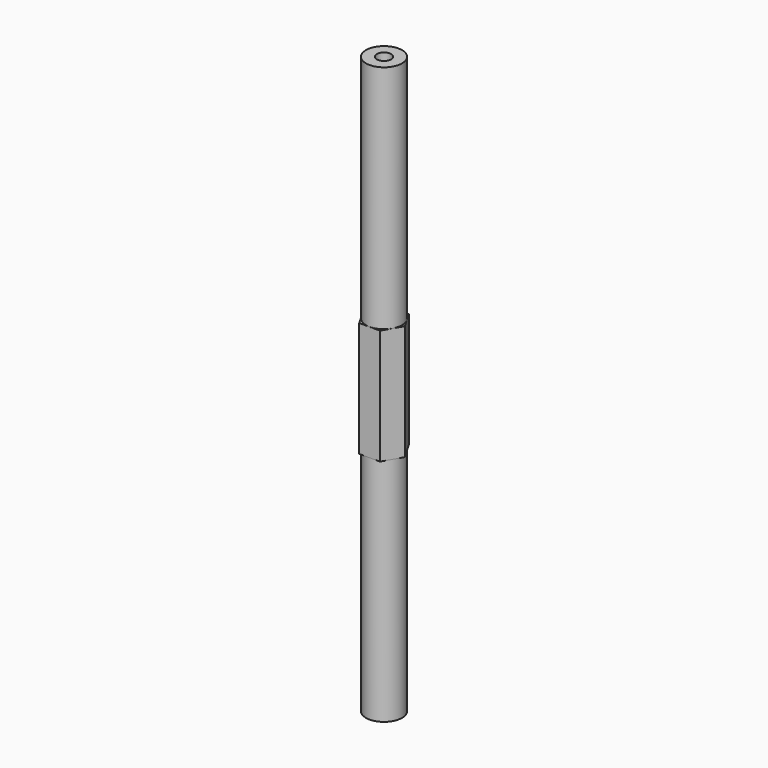
from build123d import *

# Parameters (mm, degrees)
F1_DEPTH = 254
F2_R     = 9.165436
F2_R_2   = 7.9375
F3_DEPTH = 101.6
F4_R     = 9.165436
F4_R_2   = 7.9375
F5_DEPTH = 101.6
F6_R     = 3.175
F7_DEPTH = 25.4
F8_R     = 3.175
F9_DEPTH = 25.4


with BuildPart() as f1:
    # F0 (on Top) → F1 (new body)
    with BuildSketch(Plane.XY):
        Polygon((-4.582718, 7.9375), (-9.165436, 0), (-4.582718, -7.9375), (4.582718, -7.9375), (9.165436, 0), (4.582718, 7.9375), align=None)
    extrude(amount=F1_DEPTH)

    # F2 (on face) → F3 (cut)
    with BuildSketch(Plane.XY.offset(254)):
        Circle(F2_R)
        Circle(F2_R_2, mode=Mode.SUBTRACT)
    extrude(amount=-F3_DEPTH, mode=Mode.SUBTRACT)

    # F4 (on face) → F5 (cut)
    with BuildSketch(Plane(origin=(0, 0, 0), x_dir=(1, 0, 0), z_dir=(0, 0, -1))):
        Circle(F4_R)
        Circle(F4_R_2, mode=Mode.SUBTRACT)
    extrude(amount=-F5_DEPTH, mode=Mode.SUBTRACT)

    # F6 (on face) → F7 (cut)
    with BuildSketch(Plane(origin=(0, 0, 0), x_dir=(1, 0, 0), z_dir=(0, 0, -1))):
        Circle(F6_R)
    extrude(amount=-F7_DEPTH, mode=Mode.SUBTRACT)

    # F8 (on face) → F9 (cut)
    with BuildSketch(Plane.XY.offset(254)):
        Circle(F8_R)
    extrude(amount=-F9_DEPTH, mode=Mode.SUBTRACT)


solid = f1.part
